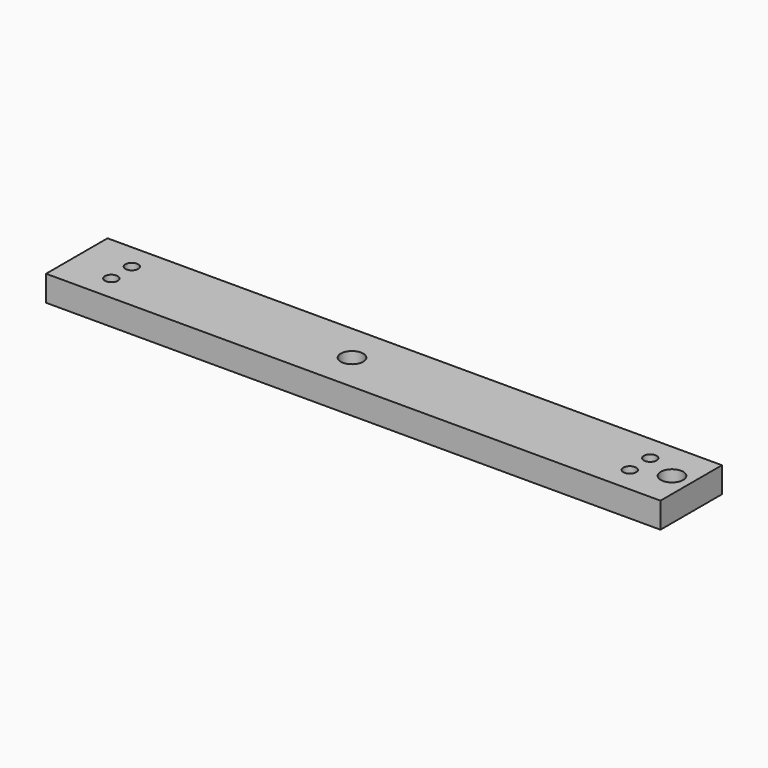
from build123d import *

# Parameters (mm, degrees)
F0_W           = 609.6
F0_H           = 76.2
F1_DEPTH       = 25.4
F2_R           = 6.35
F3_DEPTH       = 25.4
F5_D           = 14.2875
F5_CBORE_D     = 22.225
F5_CBORE_DEPTH = 12.7


with BuildPart() as f1:
    # F0 (on Top) → F1 (new body)
    with BuildSketch(Plane.XY):
        Rectangle(F0_W, F0_H)
    extrude(amount=F1_DEPTH)

    # F2 (on face) → F3 (cut)
    with BuildSketch(Plane.XY.offset(25.4)):
        with Locations((254, -12.7)):
            Circle(F2_R)
        with Locations((254, 12.7)):
            Circle(F2_R)
        with Locations((-260.35, -12.7)):
            Circle(F2_R)
        with Locations((-260.35, 12.7)):
            Circle(F2_R)
    extrude(amount=-F3_DEPTH, mode=Mode.SUBTRACT)

    # F5 (through all)
    with Locations(Plane.XY.offset(25.4)):
        with Locations((-31.75, 0), (285.75, 0)):
            CounterBoreHole(F5_D / 2, F5_CBORE_D / 2, F5_CBORE_DEPTH)


solid = f1.part
